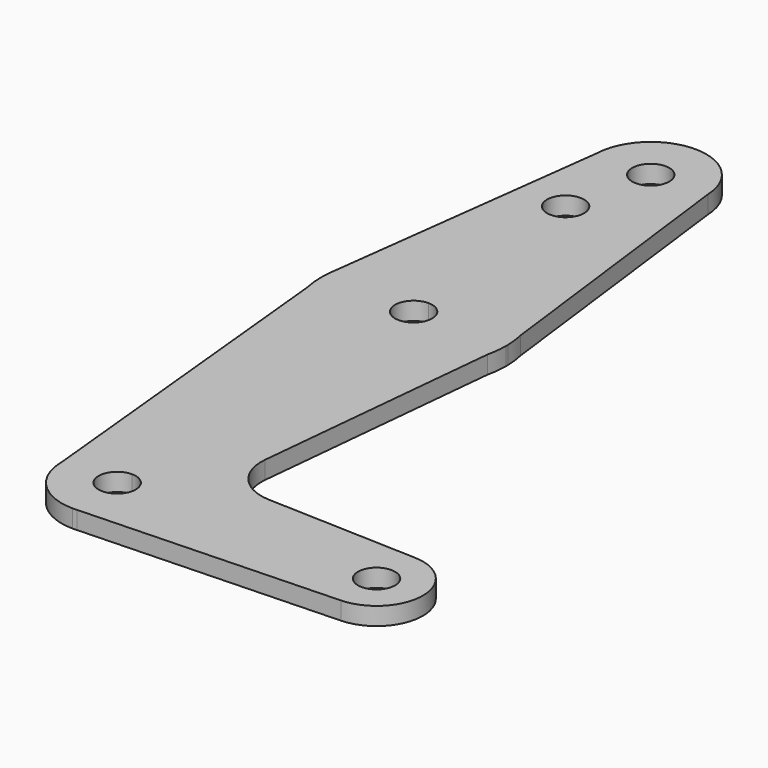
from build123d import *

# Parameters (mm, degrees)
F0_R     = 3.175
F1_DEPTH = 3.048


with BuildPart() as f1:
    # F0 (on Top) → F1 (new body)
    with BuildSketch(Plane.XY):
        with BuildLine():
            ThreePointArc((0, 9.525), (-6.7351920908, 6.7351920908), (-9.525, 0))
            ThreePointArc((-9.525, 0), (-6.7351920908, -6.7351920908), (0, -9.525))
            Line((0, -9.525), (0.6773435479, -9.500885786))
            ThreePointArc((0.6773435479, -9.500885786), (6.9705567315, -6.4912990883), (9.525, 0))
            Line((9.525, 0), (3.175, 0))
            ThreePointArc((3.175, 0), (-2.2450640303, -2.2450640303), (0, 3.175))
            Line((0, 3.175), (0, 9.525))
        make_face()
        with BuildLine():
            Line((-15.5017200113, 60.0776759811), (-9.525, 0))
            ThreePointArc((-9.525, 0), (-6.7351920908, 6.7351920908), (0, 9.525))
            Line((0, 9.525), (0, 47.625))
            ThreePointArc((0, 47.625), (-9.9419875075, 51.1237118085), (-15.5017200113, 60.0776759811))
        make_face()
        with BuildLine():
            Line((0.6773435479, -9.500885786), (0, -9.525))
            ThreePointArc((0, -9.525), (0.3388863295, -9.5189695375), (0.6773435479, -9.500885786))
        make_face()
        with BuildLine():
            Line((0, 47.625), (0, 9.525))
            ThreePointArc((0, 9.525), (6.7351920908, 6.7351920908), (9.525, 0))
            Line((9.525, 0), (36.5125, 0))
            ThreePointArc((36.5125, 0), (38.8373399243, 5.6126600757), (44.45, 7.9375))
            Line((44.45, 7.9375), (18.9302091802, 8.8524344928))
            ThreePointArc((18.9302091802, 8.8524344928), (13.2295067393, 11.5650472774), (11.3031758808, 17.5771622017))
            Line((11.3031758808, 17.5771622017), (15.4828280725, 59.9931980554))
            ThreePointArc((15.4828280725, 59.9931980554), (9.9082073083, 51.0966515434), (0, 47.625))
        make_face()
        with BuildLine():
            ThreePointArc((-15.7492316093, 65.4943241255), (-15.8584524333, 62.7753542785), (-15.5017200113, 60.0776759811))
            ThreePointArc((-15.5017200113, 60.0776759811), (-9.9419875075, 51.1237118085), (0, 47.625))
            Line((0, 47.625), (0, 60.325))
            ThreePointArc((0, 60.325), (-3.175, 63.5), (0, 66.675))
            Line((0, 66.675), (0, 79.375))
            ThreePointArc((0, 79.375), (-10.4965644262, 75.4095659134), (-15.7492316093, 65.4943241255))
        make_face()
        with BuildLine():
            ThreePointArc((9.525, 0), (6.9705567315, -6.4912990883), (0.6773435479, -9.500885786))
            Line((0.6773435479, -9.500885786), (44.7324052746, -7.9324746146))
            ThreePointArc((44.7324052746, -7.9324746146), (38.9380895153, -5.7116327839), (36.5125, 0))
            Line((36.5125, 0), (9.525, 0))
        make_face()
        with BuildLine():
            Line((0, 60.325), (0, 47.625))
            ThreePointArc((0, 47.625), (9.9082073083, 51.0966515434), (15.4828280725, 59.9931980554))
            Line((15.4828280725, 59.9931980554), (15.8695127722, 63.9173600039))
            Line((15.8695127722, 63.9173600039), (15.4829553364, 67.0062400163))
            ThreePointArc((15.4829553364, 67.0062400163), (9.9084323871, 75.9031686528), (0, 79.375))
            Line((0, 79.375), (0, 66.675))
            ThreePointArc((0, 66.675), (2.2450640303, 65.7450640303), (3.175, 63.5))
            ThreePointArc((3.175, 63.5), (2.2450640303, 61.2549359697), (0, 60.325))
        make_face()
        with BuildLine():
            Line((-9.5157078106, 114.7206303156), (-15.7492316093, 65.4943241255))
            ThreePointArc((-15.7492316093, 65.4943241255), (-10.4965644262, 75.4095659134), (0, 79.375))
            Line((0, 79.375), (0, 100.0252))
            Line((0, 100.0252), (0, 104.775))
            ThreePointArc((0, 104.775), (-6.8823008055, 107.7152023097), (-9.5157078106, 114.7206303156))
        make_face()
        with Locations((-3.175, 100.0252)):
            Circle(F0_R, mode=Mode.SUBTRACT)
        with BuildLine():
            ThreePointArc((36.5125, 0), (38.9380895153, -5.7116327839), (44.7324052746, -7.9324746146))
            ThreePointArc((44.7324052746, -7.9324746146), (50.1616327839, -5.5119104847), (52.3875, 0))
            ThreePointArc((52.3875, 0), (50.0626600757, 5.6126600757), (44.45, 7.9375))
            ThreePointArc((44.45, 7.9375), (38.8373399243, 5.6126600757), (36.5125, 0))
        make_face()
        with BuildLine():
            ThreePointArc((47.625, 0), (44.45, -3.175), (41.275, 0))
            ThreePointArc((41.275, 0), (44.45, 3.175), (47.625, 0))
        make_face(mode=Mode.SUBTRACT)
        with BuildLine():
            Line((15.8695127722, 63.9173600039), (15.4828280725, 59.9931980554))
            ThreePointArc((15.4828280725, 59.9931980554), (15.7766523802, 61.735668774), (15.875, 63.5))
            ThreePointArc((15.875, 63.5), (15.8736281338, 63.708698037), (15.8695127722, 63.9173600039))
        make_face()
        with BuildLine():
            Line((0, 100.0252), (0, 79.375))
            ThreePointArc((0, 79.375), (9.9084323871, 75.9031686528), (15.4829553364, 67.0062400163))
            Line((15.4829553364, 67.0062400163), (9.5176884498, 114.673137472))
            ThreePointArc((9.5176884498, 114.673137472), (9.523171937, 114.4866045496), (9.525, 114.3))
            ThreePointArc((9.525, 114.3), (6.7351920908, 107.5648079092), (0, 104.775))
            Line((0, 104.775), (0, 100.0252))
        make_face()
        with BuildLine():
            ThreePointArc((9.5176884498, 114.673137472), (0.0237670629, 123.8249703478), (-9.5157078106, 114.7206303156))
            ThreePointArc((-9.5157078106, 114.7206303156), (-6.8823008055, 107.7152023097), (0, 104.775))
            ThreePointArc((0, 104.775), (6.7351920908, 107.5648079092), (9.525, 114.3))
            ThreePointArc((9.525, 114.3), (9.523171937, 114.4866045496), (9.5176884498, 114.673137472))
        make_face()
        with BuildLine():
            ThreePointArc((3.175, 114.3), (2.2450640303, 112.0549359697), (0, 111.125))
            ThreePointArc((0, 111.125), (-2.2450640303, 116.5450640303), (3.175, 114.3))
        make_face(mode=Mode.SUBTRACT)
        with BuildLine():
            Line((15.4829553364, 67.0062400163), (15.8695127722, 63.9173600039))
            ThreePointArc((15.8695127722, 63.9173600039), (15.7521303022, 65.4712980349), (15.4829553364, 67.0062400163))
        make_face()
        with BuildLine():
            ThreePointArc((9.525, 0), (6.7351920908, 6.7351920908), (0, 9.525))
            Line((0, 9.525), (0, 3.175))
            ThreePointArc((0, 3.175), (2.2450640303, 2.2450640303), (3.175, 0))
            Line((3.175, 0), (9.525, 0))
        make_face()
    extrude(amount=F1_DEPTH)


solid = f1.part
